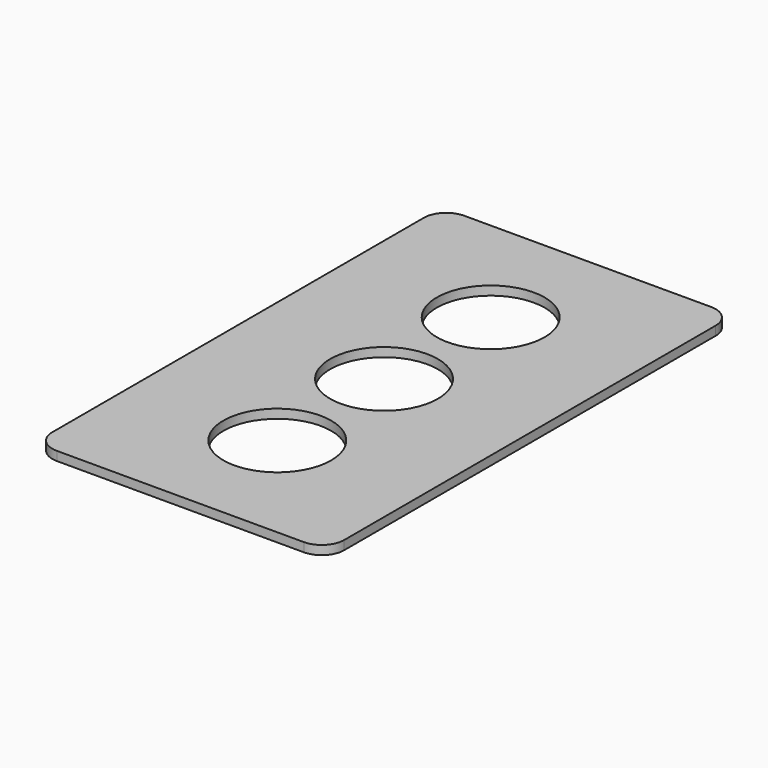
from build123d import *

# Parameters (mm, degrees)
F0_W     = 65
F0_H     = 113.4
F0_R     = 12
F1_DEPTH = 2
F2_R     = 5


with BuildPart() as f1:
    # F0 (on Top) → F1 (new body)
    with BuildSketch(Plane.XY):
        Rectangle(F0_W, F0_H)
        with Locations((0, -29.7)):
            Circle(F0_R, mode=Mode.SUBTRACT)
        Circle(F0_R, mode=Mode.SUBTRACT)
        with Locations((0, 29.7)):
            Circle(F0_R, mode=Mode.SUBTRACT)
    extrude(amount=F1_DEPTH)

    # F2
    f2_edges = [f1.edges().sort_by_distance(p)[0] for p in [
        (-32.5, 56.7, 1),
        (32.5, 56.7, 1),
        (32.5, -56.7, 1),
        (-32.5, -56.7, 1),
    ]]
    fillet(f2_edges, radius=F2_R)


solid = f1.part
